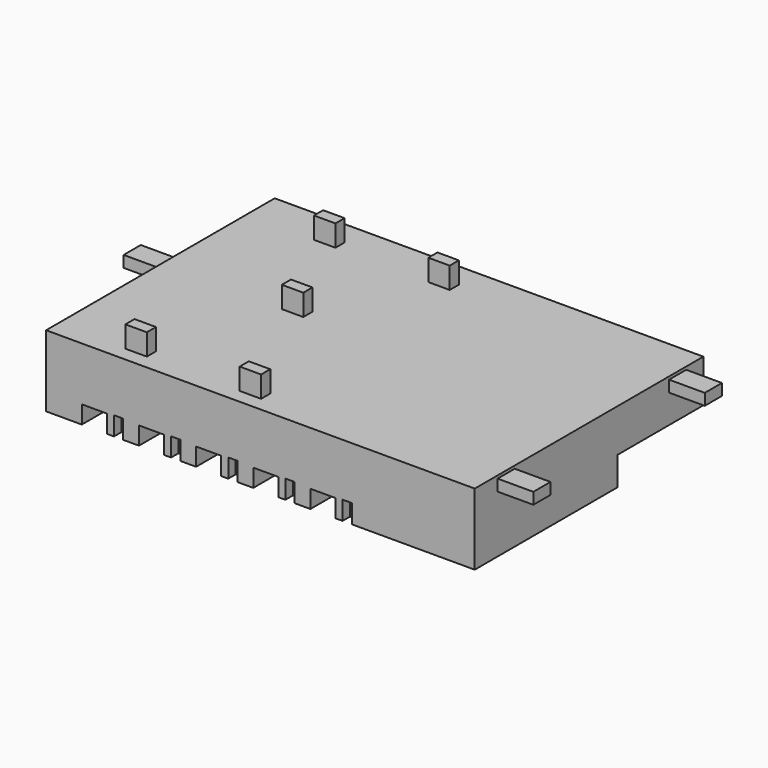
from build123d import *

# Parameters (mm, degrees)
BOX011_W     = 3048
BOX011_H     = 4572
BOX011_DEPTH = 1219.2
BOX006_W     = 1066.8
BOX006_H     = 1981.2
BOX006_DEPTH = 762
BOX005_W     = 396.24
BOX005_H     = 396.24
BOX005_DEPTH = 798.576
BOX007_W     = 1066.8
BOX007_H     = 1981.2
BOX007_DEPTH = 762
BOX008_W     = 396.24
BOX008_H     = 396.24
BOX008_DEPTH = 798.576
BOX010_W     = 1066.8
BOX010_H     = 1981.2
BOX010_DEPTH = 762
BOX009_W     = 396.24
BOX009_H     = 396.24
BOX009_DEPTH = 798.576
BOX001_W     = 1066.8
BOX001_H     = 1981.2
BOX001_DEPTH = 762
BOX002_W     = 396.24
BOX002_H     = 396.24
BOX002_DEPTH = 798.576
BOX003_W     = 1066.8
BOX003_H     = 1981.2
BOX003_DEPTH = 762
BOX004_W     = 396.24
BOX004_H     = 396.24
BOX004_DEPTH = 798.576
BOX017_W     = 914.4
BOX017_H     = 487.68
BOX017_DEPTH = 1219.2
BOX018_W     = 914.4
BOX018_H     = 487.68
BOX018_DEPTH = 1219.2
BOX019_W     = 914.4
BOX019_H     = 487.68
BOX019_DEPTH = 1219.2
BOX021_W     = 914.4
BOX021_H     = 487.68
BOX021_DEPTH = 1219.2
BOX016_W     = 914.4
BOX016_H     = 487.68
BOX016_DEPTH = 1219.2
BOX012_W     = 2438.4
BOX012_H     = 914.4
BOX012_DEPTH = 487.68
BOX013_W     = 2438.4
BOX013_H     = 914.4
BOX013_DEPTH = 487.68
BOX020_W     = 2438.4
BOX020_H     = 914.4
BOX020_DEPTH = 487.68
BOX_W        = 18288
BOX_H        = 12192
BOX_DEPTH    = 3048


with BuildPart() as nurse_station:
    # Box011 → Box011 (new body)
    with BuildSketch(Plane(origin=(15240, 7620, 0), x_dir=(1, 0, 0), z_dir=(0, 0, 1))):
        with Locations((1524, 2286)):
            Rectangle(BOX011_W, BOX011_H)
    extrude(amount=BOX011_DEPTH)


with BuildPart() as box006:
    # Box006 → Box006 (new body)
    with BuildSketch(Plane.XY):
        with Locations((533.4, 990.6)):
            Rectangle(BOX006_W, BOX006_H)
    extrude(amount=BOX006_DEPTH)


with BuildPart() as fusion002:
    # Box005 → Box005 (new body)
    with BuildSketch(Plane(origin=(1371.6, 0, 0), x_dir=(1, 0, 0), z_dir=(0, 0, 1))):
        with Locations((198.12, 198.12)):
            Rectangle(BOX005_W, BOX005_H)
    extrude(amount=BOX005_DEPTH)

    # Fusion002: union Box006
    add(box006.part)


with BuildPart() as fusion002_1:
    # Fusion002 placement: moved
    add(fusion002.part.moved(Location((4876.8, 0, 0))))


with BuildPart() as box007:
    # Box007 → Box007 (new body)
    with BuildSketch(Plane.XY):
        with Locations((533.4, 990.6)):
            Rectangle(BOX007_W, BOX007_H)
    extrude(amount=BOX007_DEPTH)


with BuildPart() as fusion003:
    # Box008 → Box008 (new body)
    with BuildSketch(Plane(origin=(1371.6, 0, 0), x_dir=(1, 0, 0), z_dir=(0, 0, 1))):
        with Locations((198.12, 198.12)):
            Rectangle(BOX008_W, BOX008_H)
    extrude(amount=BOX008_DEPTH)

    # Fusion003: union Box007
    add(box007.part)


with BuildPart() as fusion003_1:
    # Fusion003 placement: moved
    add(fusion003.part.moved(Location((7315.2, 0, 0))))


with BuildPart() as box010:
    # Box010 → Box010 (new body)
    with BuildSketch(Plane.XY):
        with Locations((533.4, 990.6)):
            Rectangle(BOX010_W, BOX010_H)
    extrude(amount=BOX010_DEPTH)


with BuildPart() as fusion004:
    # Box009 → Box009 (new body)
    with BuildSketch(Plane(origin=(1371.6, 0, 0), x_dir=(1, 0, 0), z_dir=(0, 0, 1))):
        with Locations((198.12, 198.12)):
            Rectangle(BOX009_W, BOX009_H)
    extrude(amount=BOX009_DEPTH)

    # Fusion004: union Box010
    add(box010.part)


with BuildPart() as fusion004_1:
    # Fusion004 placement: moved
    add(fusion004.part.moved(Location((9753.6, 0, 0))))


with BuildPart() as box001:
    # Box001 → Box001 (new body)
    with BuildSketch(Plane.XY):
        with Locations((533.4, 990.6)):
            Rectangle(BOX001_W, BOX001_H)
    extrude(amount=BOX001_DEPTH)


with BuildPart() as fusion:
    # Box002 → Box002 (new body)
    with BuildSketch(Plane(origin=(1371.6, 0, 0), x_dir=(1, 0, 0), z_dir=(0, 0, 1))):
        with Locations((198.12, 198.12)):
            Rectangle(BOX002_W, BOX002_H)
    extrude(amount=BOX002_DEPTH)

    # Fusion: union Box001
    add(box001.part)


with BuildPart() as box003:
    # Box003 → Box003 (new body)
    with BuildSketch(Plane.XY):
        with Locations((533.4, 990.6)):
            Rectangle(BOX003_W, BOX003_H)
    extrude(amount=BOX003_DEPTH)


with BuildPart() as right_beds:
    # Box004 → Box004 (new body)
    with BuildSketch(Plane(origin=(1371.6, 0, 0), x_dir=(1, 0, 0), z_dir=(0, 0, 1))):
        with Locations((198.12, 198.12)):
            Rectangle(BOX004_W, BOX004_H)
    extrude(amount=BOX004_DEPTH)

    # Fusion001: union Box003
    add(box003.part)


with BuildPart() as right_beds_1:
    # Fusion001 placement: moved
    add(right_beds.part.moved(Location((2438.4, 0, 0))))

    # Fusion005: union Fusion002, Fusion003, Fusion004, Fusion
    add(fusion002_1.part)
    add(fusion003_1.part)
    add(fusion004_1.part)
    add(fusion.part)


with BuildPart() as surfaces:
    # Part__Mirroring: instance of right beds
    add(right_beds_1.part.mirror(Plane(origin=(0, 6096, 0), x_dir=(1, 0, 0), z_dir=(0, 1, 0))))

    # Fusion006: union right beds
    add(right_beds_1.part)


with BuildPart() as surfaces_1:
    # Fusion006 placement: moved
    add(surfaces.part.moved(Location((1524, 0, 0))))

    # Fusion010: union Nurse Station
    add(nurse_station.part)


with BuildPart() as branch003:
    # Box017 → Box017 (new body)
    with BuildSketch(Plane(origin=(7772.4, 10668, 2743.2), x_dir=(1, 0, 0), z_dir=(0, 0, 1))):
        with Locations((457.2, 243.84)):
            Rectangle(BOX017_W, BOX017_H)
    extrude(amount=BOX017_DEPTH)


with BuildPart() as branch004:
    # Box018 → Box018 (new body)
    with BuildSketch(Plane(origin=(2895.6, 609.6, 2743.2), x_dir=(1, 0, 0), z_dir=(0, 0, 1))):
        with Locations((457.2, 243.84)):
            Rectangle(BOX018_W, BOX018_H)
    extrude(amount=BOX018_DEPTH)


with BuildPart() as branch005:
    # Box019 → Box019 (new body)
    with BuildSketch(Plane(origin=(2895.6, 10668, 2743.2), x_dir=(1, 0, 0), z_dir=(0, 0, 1))):
        with Locations((457.2, 243.84)):
            Rectangle(BOX019_W, BOX019_H)
    extrude(amount=BOX019_DEPTH)


with BuildPart() as branch006:
    # Box021 → Box021 (new body)
    with BuildSketch(Plane(origin=(5181.6, 6096, 2743.2), x_dir=(1, 0, 0), z_dir=(0, 0, 1))):
        with Locations((457.2, 243.84)):
            Rectangle(BOX021_W, BOX021_H)
    extrude(amount=BOX021_DEPTH)


with BuildPart() as fusion013:
    # Box016 → Box016 (new body)
    with BuildSketch(Plane(origin=(7772.4, 609.6, 2743.2), x_dir=(1, 0, 0), z_dir=(0, 0, 1))):
        with Locations((457.2, 243.84)):
            Rectangle(BOX016_W, BOX016_H)
    extrude(amount=BOX016_DEPTH)

    # Fusion013: union branch003, branch004, branch005, branch006
    add(branch003.part)
    add(branch004.part)
    add(branch005.part)
    add(branch006.part)


with BuildPart() as main_inlet:
    # Box012 → Box012 (new body)
    with BuildSketch(Plane(origin=(17373.6, 1219.2, 2438.4), x_dir=(1, 0, 0), z_dir=(0, 0, 1))):
        with Locations((1219.2, 457.2)):
            Rectangle(BOX012_W, BOX012_H)
    extrude(amount=BOX012_DEPTH)


with BuildPart() as main_outlet:
    # Box013 → Box013 (new body)
    with BuildSketch(Plane(origin=(-1524, 6040.43496, 2438.4), x_dir=(1, 0, 0), z_dir=(0, 0, 1))):
        with Locations((1219.2, 457.2)):
            Rectangle(BOX013_W, BOX013_H)
    extrude(amount=BOX013_DEPTH)


with BuildPart() as fusion014:
    # Box020 → Box020 (new body)
    with BuildSketch(Plane(origin=(17373.6, 10363.2, 2438.4), x_dir=(1, 0, 0), z_dir=(0, 0, 1))):
        with Locations((1219.2, 457.2)):
            Rectangle(BOX020_W, BOX020_H)
    extrude(amount=BOX020_DEPTH)

    # Fusion012: union main inlet, main outlet
    add(main_inlet.part)
    add(main_outlet.part)

    # Fusion014: union Fusion013
    add(fusion013.part)


with BuildPart() as cut:
    # Box → Box (new body)
    with BuildSketch(Plane.XY):
        with Locations((9144, 6096)):
            Rectangle(BOX_W, BOX_H)
    extrude(amount=BOX_DEPTH)

    # Fusion015: union Fusion014
    add(fusion014.part)

    # Cut: cut surfaces
    add(surfaces_1.part, mode=Mode.SUBTRACT)


solid = cut.part
